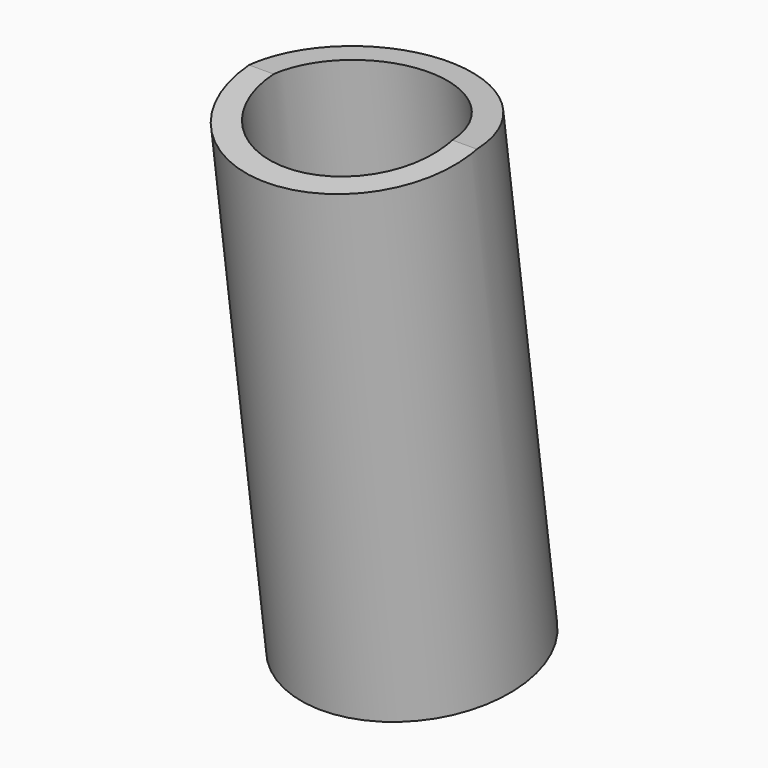
from build123d import *

# Parameters (mm, degrees)
CYLINDER009_R          = 11
CYLINDER009_DEPTH      = 61
BOX020_W               = 32
BOX020_H               = 32
BOX020_DEPTH           = 8
BOX020_PLACEMENT_ANGLE = 10
CYLINDER008_R          = 14
CYLINDER008_DEPTH      = 61
CUT014_PLACEMENT_ANGLE = 8


with BuildPart() as obj1:
    # Cylinder009 → Cylinder009 (new body)
    with BuildSketch(Plane(origin=(15, -20, -39), x_dir=(1, 0, 0), z_dir=(0, 0, 1))):
        Circle(CYLINDER009_R)
    extrude(amount=CYLINDER009_DEPTH)


with BuildPart() as fusion010:
    # Box020 → Box020 (new body)
    with BuildSketch(Plane.XY):
        with Locations((16, 16)):
            Rectangle(BOX020_W, BOX020_H)
    extrude(amount=BOX020_DEPTH)


with BuildPart() as fusion010_1:
    # Box020 placement: moved
    add(fusion010.part.moved(Location((-2, -36, 25))).rotate(Axis((-2, -36, 25), (-1, 0, 0)), BOX020_PLACEMENT_ANGLE))

    # Fusion010: union obj1
    add(obj1.part)


with BuildPart() as tube:
    # Cylinder008 → Cylinder008 (new body)
    with BuildSketch(Plane(origin=(15, -20, -39), x_dir=(1, 0, 0), z_dir=(0, 0, 1))):
        Circle(CYLINDER008_R)
    extrude(amount=CYLINDER008_DEPTH)

    # Cut014: cut Fusion010
    add(fusion010_1.part, mode=Mode.SUBTRACT)


with BuildPart() as tube_1:
    # Cut014 placement: moved
    add(tube.part.moved(Location((0, 5, 3))).rotate(Axis((0, 5, 3), (1, 0, 0)), CUT014_PLACEMENT_ANGLE))


solid = tube_1.part
